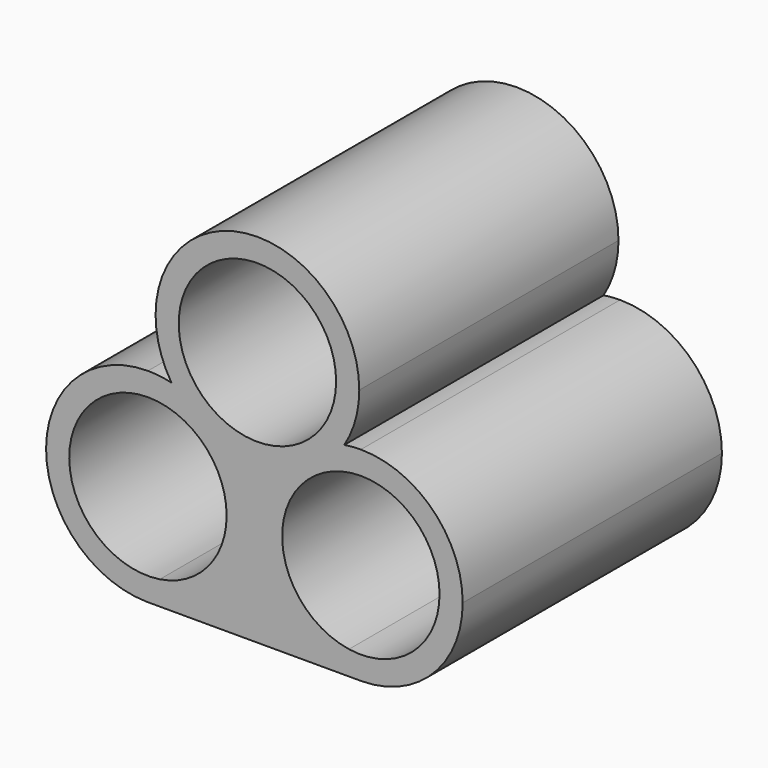
from build123d import *

# Parameters (mm, degrees)
F1_DEPTH = 35


with BuildPart() as f1:
    # F0 (on Front) → F1 (new body)
    with BuildSketch(Plane.XZ):
        with BuildLine():
            Line((-11.8279261539, 8.5), (-11.8279261539, 11))
            ThreePointArc((-11.8279261539, 11), (-22.8278387233, 0.043857336), (-11.9156401288, -10.9996502789))
            Line((-11.9156401288, -10.9996502789), (-11.7402121791, -10.9996502789))
            ThreePointArc((-11.7402121791, -10.9996502789), (-8.0071490259, -10.3151181349), (-4.7289271207, -8.4026312978))
            Line((-4.7289271207, -8.4026312978), (-10.5450437457, -8.4026312978))
            ThreePointArc((-10.5450437457, -8.4026312978), (-20.3035490228, -0.6432860829), (-11.8279261539, 8.5))
        make_face()
        with BuildLine():
            ThreePointArc((22.1720738461, 0), (18.9502484391, 7.7781745931), (11.1720738461, 11))
            Line((11.1720738461, 11), (11.1720738461, 8.5))
            ThreePointArc((11.1720738461, 8.5), (17.1824814862, 6.0104076401), (19.6720738461, 0))
            ThreePointArc((19.6720738461, 0), (16.7103723, -6.4480423568), (9.8891914378, -8.4026312978))
            Line((9.8891914378, -8.4026312978), (4.0730748129, -8.4026312978))
            ThreePointArc((4.0730748129, -8.4026312978), (7.351296718, -10.3151181349), (11.0843598712, -10.9996502789))
            Line((11.0843598712, -10.9996502789), (11.2597878209, -10.9996502789))
            ThreePointArc((11.2597878209, -10.9996502789), (18.981198436, -7.7471009506), (22.1720738461, 0))
        make_face()
        with BuildLine():
            ThreePointArc((-8.5, 16.5973687022), (0, 25.0973687022), (8.5, 16.5973687022))
            Line((8.5, 16.5973687022), (11, 16.5973687022))
            ThreePointArc((11, 16.5973687022), (0, 27.5973687022), (-11, 16.5973687022))
            Line((-11, 16.5973687022), (-8.5, 16.5973687022))
        make_face()
        with BuildLine():
            ThreePointArc((11.0843598712, -10.9996502789), (7.351296718, -10.3151181349), (4.0730748129, -8.4026312978))
            Line((4.0730748129, -8.4026312978), (-4.7289271207, -8.4026312978))
            ThreePointArc((-4.7289271207, -8.4026312978), (-8.0071490259, -10.3151181349), (-11.7402121791, -10.9996502789))
            Line((-11.7402121791, -10.9996502789), (11.0843598712, -10.9996502789))
        make_face()
        with BuildLine():
            Line((11, 16.5973687022), (8.5, 16.5973687022))
            ThreePointArc((8.5, 16.5973687022), (0, 8.0973687022), (-8.5, 16.5973687022))
            Line((-8.5, 16.5973687022), (-11, 16.5973687022))
            ThreePointArc((-11, 16.5973687022), (-10.5631097264, 13.5280507147), (-9.2871431076, 10.7025427592))
            ThreePointArc((-9.2871431076, 10.7025427592), (-5.4440797803, 8.9580413863), (-2.5407830463, 5.8948259431))
            ThreePointArc((-2.5407830463, 5.8948259431), (-0.3823916111, 5.6040172271), (1.7909896489, 5.7441500056))
            ThreePointArc((1.7909896489, 5.7441500056), (5.0296432011, 9.1252696274), (9.3810841971, 10.8532186967))
            ThreePointArc((9.3810841971, 10.8532186967), (10.5875381031, 13.6134054123), (11, 16.5973687022))
        make_face()
        with BuildLine():
            ThreePointArc((-2.5407830463, 5.8948259431), (-5.4440797803, 8.9580413863), (-9.2871431076, 10.7025427592))
            ThreePointArc((-9.2871431076, 10.7025427592), (-6.3838463736, 7.6393273159), (-2.5407830463, 5.8948259431))
        make_face()
        with BuildLine():
            ThreePointArc((1.7909896489, 5.7441500056), (6.142430645, 7.4720990749), (9.3810841971, 10.8532186967))
            ThreePointArc((9.3810841971, 10.8532186967), (5.0296432011, 9.1252696274), (1.7909896489, 5.7441500056))
        make_face()
        with BuildLine():
            ThreePointArc((4.0730748129, -8.4026312978), (0.3124633037, -1.7518158776), (1.7909896489, 5.7441500056))
            ThreePointArc((1.7909896489, 5.7441500056), (-0.3823916111, 5.6040172271), (-2.5407830463, 5.8948259431))
            ThreePointArc((-2.5407830463, 5.8948259431), (-1.2648164275, 3.0693179875), (-0.8279261539, 0))
            ThreePointArc((-0.8279261539, 0), (-1.8507274147, -4.6320087778), (-4.7289271207, -8.4026312978))
            Line((-4.7289271207, -8.4026312978), (4.0730748129, -8.4026312978))
        make_face()
        with BuildLine():
            ThreePointArc((11.1720738461, 11), (10.2735766739, 10.9632432624), (9.3810841971, 10.8532186967))
            ThreePointArc((9.3810841971, 10.8532186967), (6.142430645, 7.4720990749), (1.7909896489, 5.7441500056))
            ThreePointArc((1.7909896489, 5.7441500056), (0.3124633037, -1.7518158776), (4.0730748129, -8.4026312978))
            Line((4.0730748129, -8.4026312978), (9.8891914378, -8.4026312978))
            ThreePointArc((9.8891914378, -8.4026312978), (2.6964509772, 0.6432860829), (11.1720738461, 8.5))
            Line((11.1720738461, 8.5), (11.1720738461, 11))
        make_face()
        with BuildLine():
            ThreePointArc((-2.5407830463, 5.8948259431), (-6.3838463736, 7.6393273159), (-9.2871431076, 10.7025427592))
            ThreePointArc((-9.2871431076, 10.7025427592), (-10.5488582024, 10.92538261), (-11.8279261539, 11))
            Line((-11.8279261539, 11), (-11.8279261539, 8.5))
            ThreePointArc((-11.8279261539, 8.5), (-5.8175185138, 6.0104076401), (-3.3279261539, 0))
            ThreePointArc((-3.3279261539, 0), (-5.3798837971, -5.5382984539), (-10.5450437457, -8.4026312978))
            Line((-10.5450437457, -8.4026312978), (-4.7289271207, -8.4026312978))
            ThreePointArc((-4.7289271207, -8.4026312978), (-1.8507274147, -4.6320087778), (-0.8279261539, 0))
            ThreePointArc((-0.8279261539, 0), (-1.2648164275, 3.0693179875), (-2.5407830463, 5.8948259431))
        make_face()
        with BuildLine():
            ThreePointArc((22.1720738461, 0), (18.9502484391, 7.7781745931), (11.1720738461, 11))
            Line((11.1720738461, 11), (11.1720738461, 8.5))
            ThreePointArc((11.1720738461, 8.5), (17.1824814862, 6.0104076401), (19.6720738461, 0))
            ThreePointArc((19.6720738461, 0), (16.7103723, -6.4480423568), (9.8891914378, -8.4026312978))
            Line((9.8891914378, -8.4026312978), (4.0730748129, -8.4026312978))
            ThreePointArc((4.0730748129, -8.4026312978), (7.351296718, -10.3151181349), (11.0843598712, -10.9996502789))
            Line((11.0843598712, -10.9996502789), (11.2597878209, -10.9996502789))
            ThreePointArc((11.2597878209, -10.9996502789), (18.981198436, -7.7471009506), (22.1720738461, 0))
        make_face()
        with BuildLine():
            Line((-11.8279261539, 8.5), (-11.8279261539, 11))
            ThreePointArc((-11.8279261539, 11), (-22.8278387233, 0.043857336), (-11.9156401288, -10.9996502789))
            Line((-11.9156401288, -10.9996502789), (-11.7402121791, -10.9996502789))
            ThreePointArc((-11.7402121791, -10.9996502789), (-8.0071490259, -10.3151181349), (-4.7289271207, -8.4026312978))
            Line((-4.7289271207, -8.4026312978), (-10.5450437457, -8.4026312978))
            ThreePointArc((-10.5450437457, -8.4026312978), (-20.3035490228, -0.6432860829), (-11.8279261539, 8.5))
        make_face()
    extrude(amount=F1_DEPTH)


solid = f1.part
